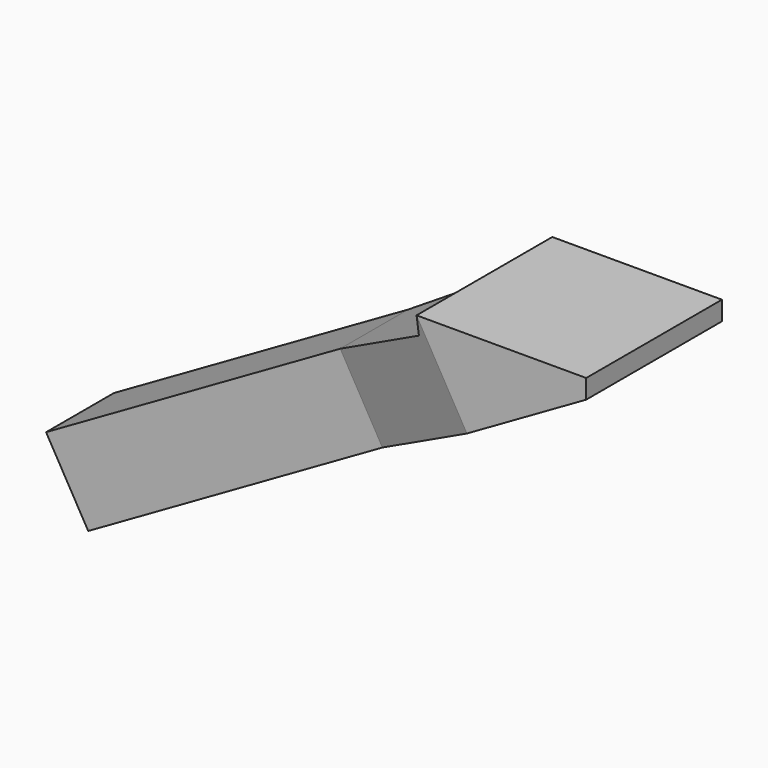
from build123d import *

# Parameters (mm, degrees)
F1_DEPTH = 400
F3_DEPTH = 500
F4_W     = 200
F4_H     = 199.3884497032
F5_DEPTH = 800


with BuildPart() as f1:
    # F0 (on Front) → F1 (new body)
    with BuildSketch(Plane.XZ):
        Polygon((400, 151.8551181662), (0, 151.8551181662), (0, 106.8551181662), (-260.0718909173, -42.6862191112), (-160.6825062296, -215.5373229158), (400, 106.8551181662), align=None)
    extrude(amount=F1_DEPTH)

    # F2 (on face) → F3 (cut, symmetric)
    with BuildSketch(Plane(origin=(-46.1750628055, 0, 80.3044570531), x_dir=(0.8669063031, 0, 0.4984711243), z_dir=(-0.4984711243, 0, 0.8669063031))):
        Polygon((75.6953914767, -400), (-246.735809115, -300), (-246.735809115, -400), align=None)
        Polygon((-246.735809115, 0), (-246.735809115, -100), (53.264190885, -6.956895161), (53.264190885, 0), align=None)
    extrude(amount=F3_DEPTH, both=True, mode=Mode.SUBTRACT)

    # F4 (on face) → F5 (join)
    with BuildSketch(Plane(origin=(-213.8968281118, 0, -122.9906761643), x_dir=(0, -1, 0), z_dir=(-0.8669063031, 0, -0.4984711243))):
        with Locations((200, -7.0608493994)):
            Rectangle(F4_W, F4_H)
    extrude(amount=F5_DEPTH)


solid = f1.part
